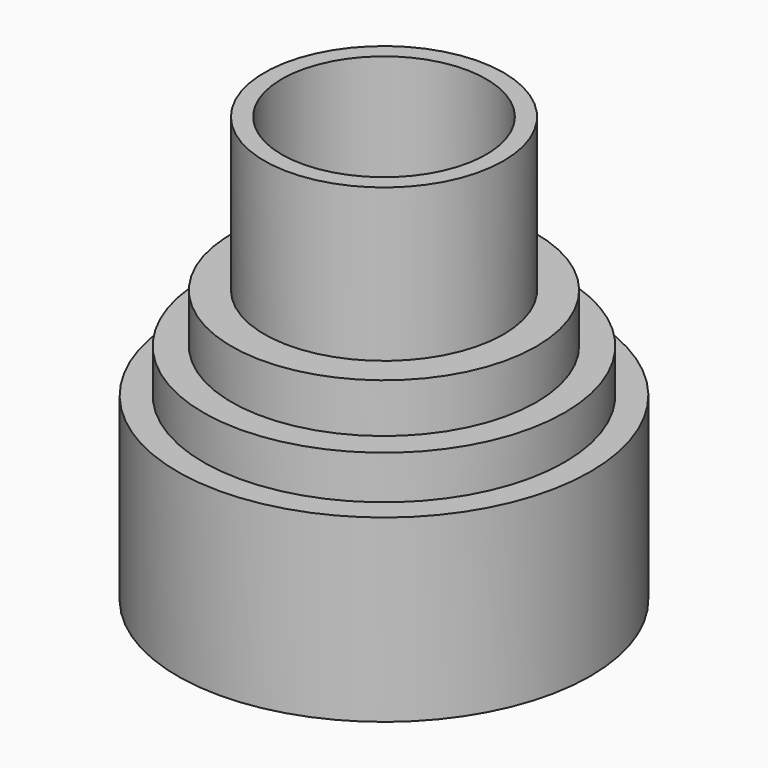
from build123d import *

# Parameters (mm, degrees)
F0_R     = 19.2346
F1_DEPTH = 16.764
F2_R     = 16.832332
F3_DEPTH = 20.828
F4_R     = 14.200523
F5_DEPTH = 25.4
F6_R     = 11.141094
F7_DEPTH = 39.624
F9_D     = 19.05


with BuildPart() as f1:
    # F0 (on Top) → F1 (new body)
    with BuildSketch(Plane.XY):
        Circle(F0_R)
    extrude(amount=F1_DEPTH)

    # F2 (on Top) → F3 (join)
    with BuildSketch(Plane.XY):
        Circle(F2_R)
    extrude(amount=F3_DEPTH)

    # F4 (on Top) → F5 (join)
    with BuildSketch(Plane.XY):
        Circle(F4_R)
    extrude(amount=F5_DEPTH)

    # F6 (on Top) → F7 (join)
    with BuildSketch(Plane.XY):
        Circle(F6_R)
    extrude(amount=F7_DEPTH)

    # F9 (through all)
    with Locations(Plane.XY.offset(39.624)):
        with Locations((0, 0)):
            Hole(F9_D / 2)


solid = f1.part
